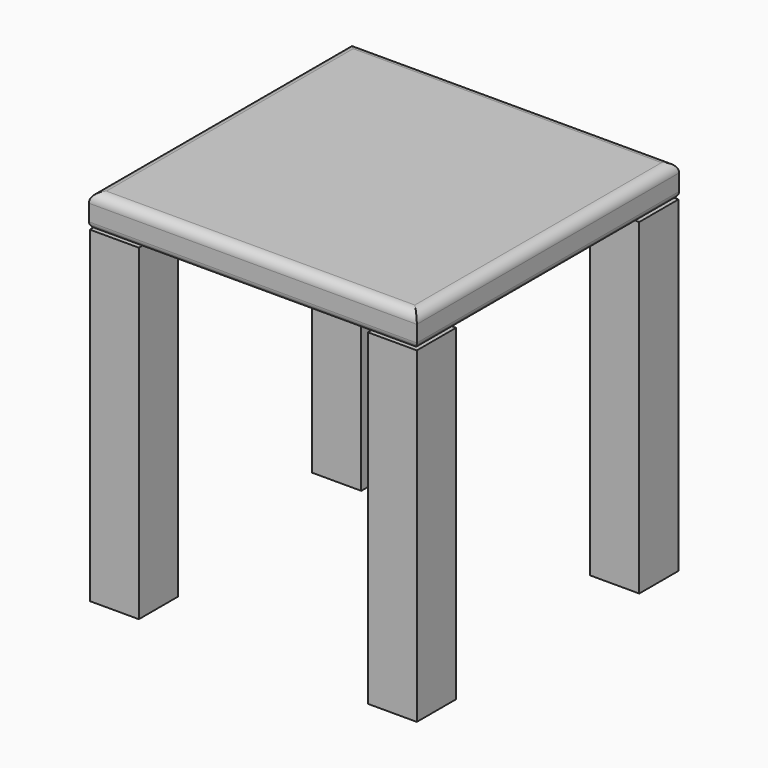
from build123d import *

# Parameters (mm, degrees)
F0_W     = 15
F0_H     = 15
F1_DEPTH = 100
F2_W     = 100.278782
F2_H     = 100.27878
F3_DEPTH = 10
F4_R     = 2
F5_R     = 3


with BuildPart() as f1:
    # F0 (on Top) → F1 (new body)
    with BuildSketch(Plane.XY):
        with Locations((-77.5, 41.634444)):
            Rectangle(F0_W, F0_H)
        with Locations((-77.5, -43.365556)):
            Rectangle(F0_W, F0_H)
        with Locations((7.5, 41.634444)):
            Rectangle(F0_W, F0_H)
        with Locations((7.5, -43.365556)):
            Rectangle(F0_W, F0_H)
    extrude(amount=-F1_DEPTH)


with BuildPart() as f3:
    # F2 (on Top) → F3 (new body)
    with BuildSketch(Plane.XY):
        with Locations((-35.168617, -0.708185)):
            Rectangle(F2_W, F2_H)
    extrude(amount=F3_DEPTH)

    # F4
    f4_edges = [f3.edges().sort_by_distance(p)[0] for p in [
        (-85.308008, -0.708185, 0),
        (-35.168617, 49.431205, 0),
        (-35.168617, -50.847575, 0),
        (14.970774, -0.708185, 0),
    ]]
    fillet(f4_edges, radius=F4_R)

    # F5
    f5_edges = [f3.edges().sort_by_distance(p)[0] for p in [
        (-35.168617, 49.431205, 10),
        (-85.308008, -0.708185, 10),
        (-35.168617, -50.847575, 10),
        (14.970774, -0.708185, 10),
    ]]
    fillet(f5_edges, radius=F5_R)


solid = Compound([f1.part, f3.part])
